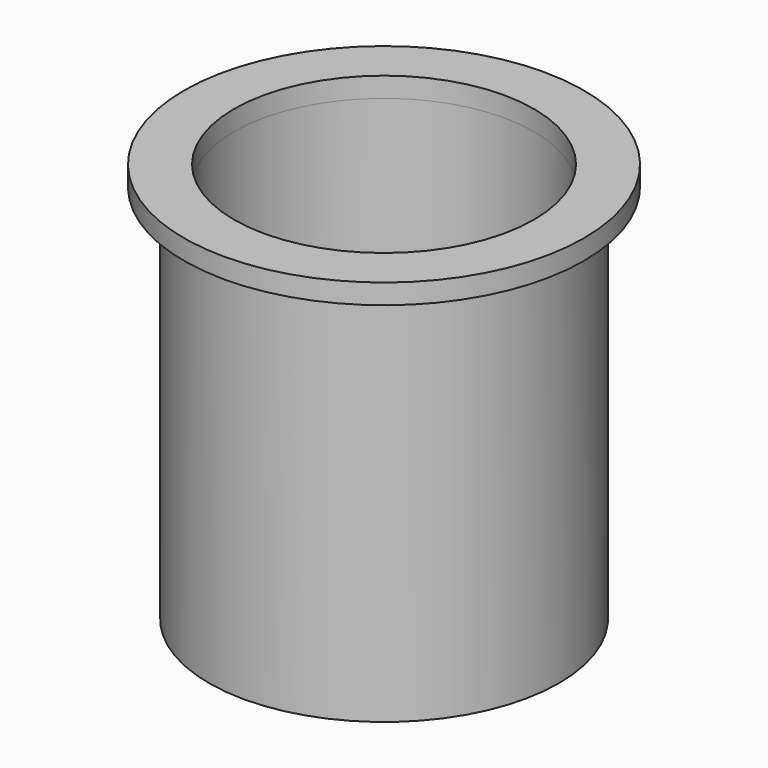
from build123d import *

# Parameters (mm, degrees)
F0_R     = 8.75
F1_DEPTH = 19
F2_T     = -1.25
F3_R     = 10
F4_DEPTH = 1
F5_R     = 7.5
F6_DEPTH = 1.001


with BuildPart() as f1:
    # F0 (on Top) → F1 (new body)
    with BuildSketch(Plane.XY):
        Circle(F0_R)
    extrude(amount=F1_DEPTH)

    # F2
    f2_openings = [f1.faces().sort_by_distance(p)[0] for p in [
        (0, 0, 19),
        (0, 0, 0),
    ]]
    offset(amount=F2_T, openings=f2_openings)

    # F3 (on face) → F4 (join)
    with BuildSketch(Plane.XY.offset(19)):
        Circle(F3_R)
    extrude(amount=F4_DEPTH)

    # F5 (on face) → F6 (cut, through all)
    with BuildSketch(Plane(origin=(0, 0, 19), x_dir=(1, 0, 0), z_dir=(0, 0, -1))):
        Circle(F5_R)
    extrude(amount=-F6_DEPTH, mode=Mode.SUBTRACT)


solid = f1.part
